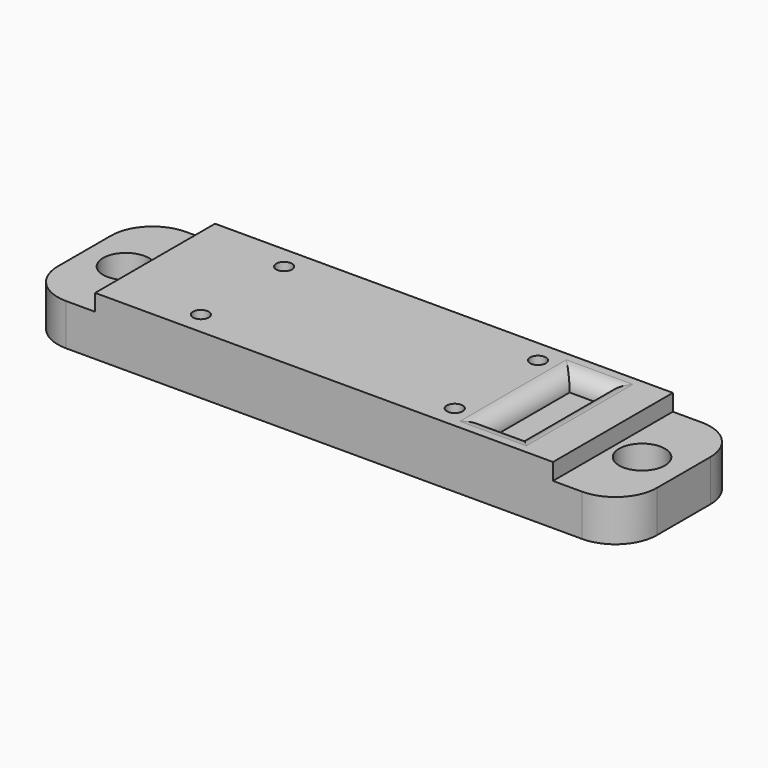
from build123d import *

# Parameters (mm, degrees)
SKETCH_W        = 72
SKETCH_H        = 18
SKETCH_R        = 1.8
PAD_DEPTH       = 7
SKETCH001_R     = 2.75
POCKET_DEPTH    = 5
SKETCH002_W     = 8.5
SKETCH002_H     = 18
SKETCH002_W_2   = 4
SKETCH002_H_2   = 12
POCKET001_DEPTH = 2
SKETCH003_R     = 0.95
POCKET002_DEPTH = 5
FILLET_R        = 5
FILLET001_R     = 1.99


with BuildPart() as part:
    # Sketch → Pad (new body)
    with BuildSketch(Plane.XY):
        Rectangle(SKETCH_W, SKETCH_H)
        with Locations((-31, 0)):
            Circle(SKETCH_R, mode=Mode.SUBTRACT)
        with Locations((31, 0)):
            Circle(SKETCH_R, mode=Mode.SUBTRACT)
    extrude(amount=PAD_DEPTH)

    # Sketch001 (on Face8 of Pad) → Pocket (cut)
    with BuildSketch(Plane.XY.offset(7)):
        with Locations((-31, 0)):
            Circle(SKETCH001_R)
        with Locations((31, 0)):
            Circle(SKETCH001_R)
    extrude(amount=-POCKET_DEPTH, mode=Mode.SUBTRACT)

    # Sketch002 (on Face5 of Pocket) → Pocket001 (cut)
    with BuildSketch(Plane.XY.offset(7)):
        with Locations((-31.75, 0)):
            Rectangle(SKETCH002_W, SKETCH002_H)
        with Locations((31.75, 0)):
            Rectangle(SKETCH002_W, SKETCH002_H)
        with Locations((19.5, 0)):
            Rectangle(SKETCH002_W_2, SKETCH002_H_2)
    extrude(amount=-POCKET001_DEPTH, mode=Mode.SUBTRACT)

    # Sketch003 (on Face11 of Pocket001) → Pocket002 (cut)
    with BuildSketch(Plane.XY.offset(7)):
        with Locations((-17, 6.25)):
            Circle(SKETCH003_R)
        with Locations((-17, -6.25)):
            Circle(SKETCH003_R)
        with Locations((13.5, 6.25)):
            Circle(SKETCH003_R)
        with Locations((13.5, -6.25)):
            Circle(SKETCH003_R)
    extrude(amount=-POCKET002_DEPTH, mode=Mode.SUBTRACT)

    # Fillet
    fillet_edges = [part.edges().sort_by_distance(p)[0] for p in [
        (-36, -9, 2.5),
        (-36, 9, 2.5),
        (36, -9, 2.5),
        (36, 9, 2.5),
    ]]
    fillet(fillet_edges, radius=FILLET_R)

    # Fillet001
    fillet001_edges = [part.edges().sort_by_distance(p)[0] for p in [
        (21.5, 0, 7),
        (19.5, 6, 7),
        (17.5, 0, 7),
        (19.5, -6, 7),
    ]]
    fillet(fillet001_edges, radius=FILLET001_R)


solid = part.part
